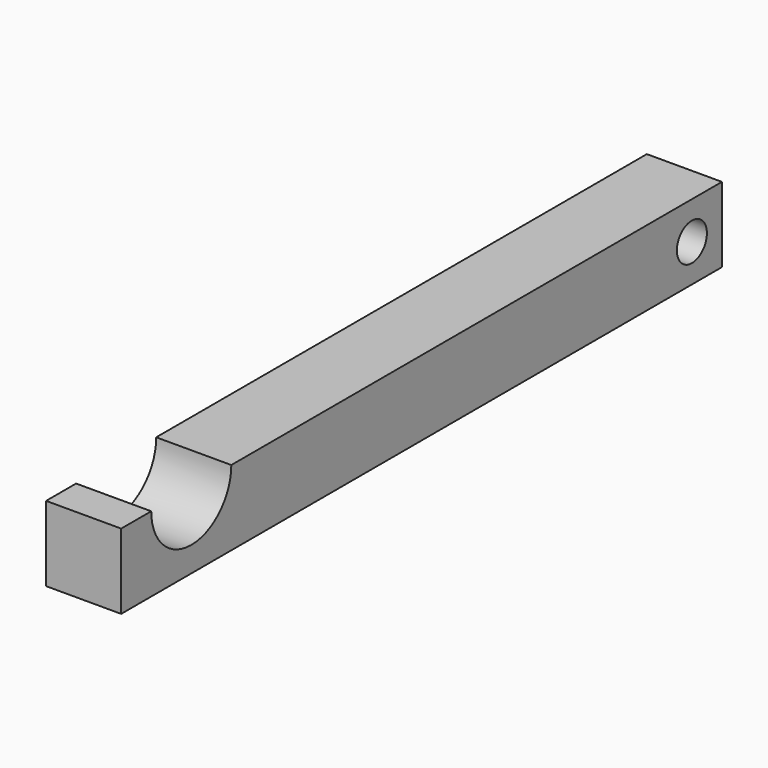
from build123d import *

# Parameters (mm, degrees)
F0_W     = 38.100004
F0_H     = 38.1
F1_DEPTH = 190.5
F2_R     = 25.4
F3_DEPTH = 38.101003
F4_R     = 9.525
F5_DEPTH = 38.101003


with BuildPart() as f1:
    # F0 (on Front) → F1 (new body, symmetric)
    with BuildSketch(Plane.XZ):
        Rectangle(F0_W, F0_H)
    extrude(amount=F1_DEPTH, both=True)

    # F2 (on face) → F3 (cut, through all)
    with BuildSketch(Plane.YZ.offset(19.050002)):
        with Locations((-146.05, 19.05)):
            Circle(F2_R)
    extrude(amount=-F3_DEPTH, mode=Mode.SUBTRACT)

    # F4 (on face) → F5 (cut, through all)
    with BuildSketch(Plane.YZ.offset(19.050002)):
        with Locations((171.45, 0)):
            Circle(F4_R)
    extrude(amount=-F5_DEPTH, mode=Mode.SUBTRACT)


solid = f1.part
